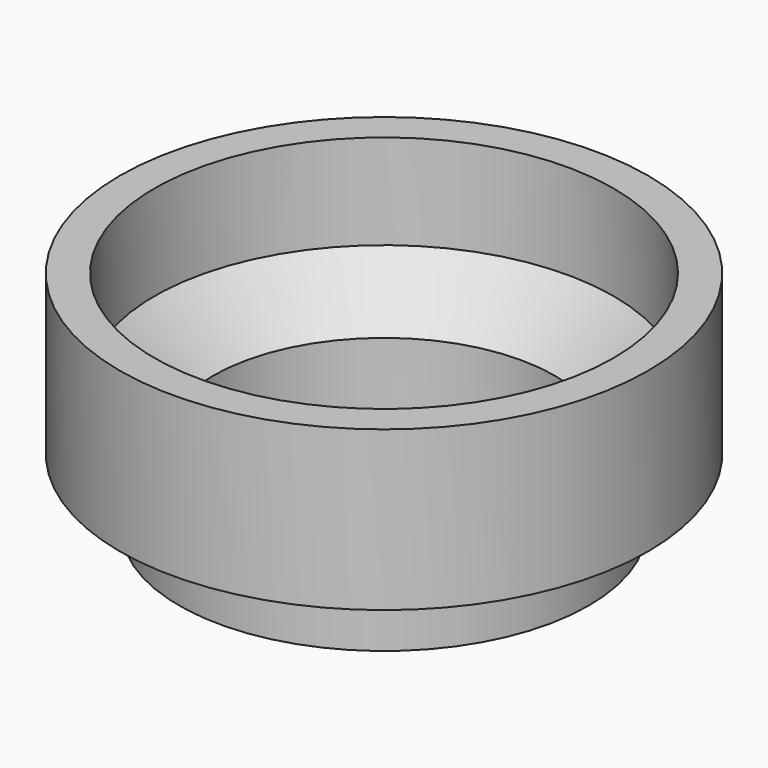
from build123d import *

# Parameters (mm, degrees)
F2_R     = 25.921407
F3_DEPTH = 25


with BuildPart() as f1:
    # F0 (on Front) → F1 (revolve)
    with BuildSketch(Plane.XZ):
        Polygon((0, 10.126797), (0, 0), (31.009387, 0), (31.009387, 10.126797), (39.983399, 10.126797), (39.983399, 34.21212), (34.762897, 34.21212), (34.762897, 19.85573), (23.669325, 10.126797), align=None)
    revolve(axis=Axis((0, 0, 5.063399), (0, 0, -1)))

    # F2 (on Top) → F3 (cut)
    with BuildSketch(Plane.XY):
        Circle(F2_R)
    extrude(amount=F3_DEPTH, mode=Mode.SUBTRACT)


solid = f1.part
